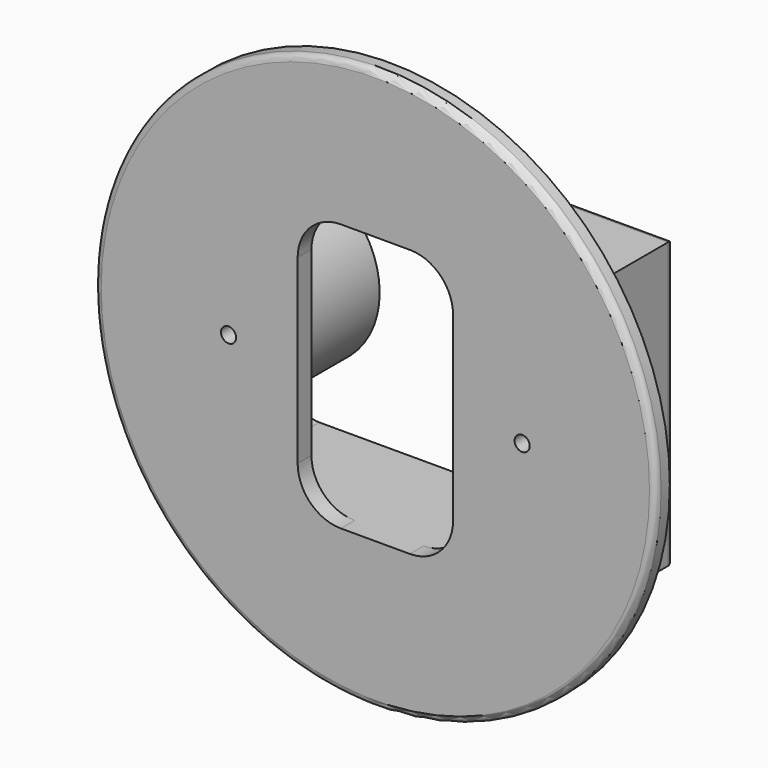
from build123d import *

# Parameters (mm, degrees)
F0_R     = 32.5
F0_W     = 45
F0_H     = 33
F1_DEPTH = 2
F0_R_2   = 0.875
F2_DEPTH = 15
F3_R     = 0.75
F4_R     = 0.75


with BuildPart() as f1:
    # F0 (on Front) → F1 (new body)
    with BuildSketch(Plane.XZ):
        with Locations((-22.5, 16.5)):
            Circle(F0_R)
        with Locations((-22.5, 16.5)):
            Rectangle(F0_W, F0_H, mode=Mode.SUBTRACT)
        with Locations((-22.5, 16.5)):
            Rectangle(F0_W, F0_H)
        with BuildLine():
            Line((-18.5, 32), (-4, 32))
            ThreePointArc((-4, 32), (-1.8786796564, 31.1213203436), (-1, 29))
            Line((-1, 29), (-1, 26.5))
            Line((-1, 26.5), (-1, 6.5))
            Line((-1, 6.5), (-1, 4))
            ThreePointArc((-1, 4), (-1.8786796564, 1.8786796564), (-4, 1))
            Line((-4, 1), (-18.5, 1))
            Line((-18.5, 1), (-26.5, 1))
            Line((-26.5, 1), (-41, 1))
            ThreePointArc((-41, 1), (-43.1213203436, 1.8786796564), (-44, 4))
            Line((-44, 4), (-44, 6.5))
            Line((-44, 6.5), (-44, 26.5))
            Line((-44, 26.5), (-44, 29))
            ThreePointArc((-44, 29), (-43.1213203436, 31.1213203436), (-41, 32))
            Line((-41, 32), (-26.5, 32))
            Line((-26.5, 32), (-18.5, 32))
        make_face(mode=Mode.SUBTRACT)
        with BuildLine():
            ThreePointArc((-1, 29), (-1.8786796564, 31.1213203436), (-4, 32))
            Line((-4, 32), (-18.5, 32))
            ThreePointArc((-18.5, 32), (-14.9644660941, 30.5355339059), (-13.5, 27))
            Line((-13.5, 27), (-13.5, 6))
            ThreePointArc((-13.5, 6), (-14.9644660941, 2.4644660941), (-18.5, 1))
            Line((-18.5, 1), (-4, 1))
            ThreePointArc((-4, 1), (-1.8786796564, 1.8786796564), (-1, 4))
            Line((-1, 4), (-1, 6.5))
            ThreePointArc((-1, 6.5), (-11, 16.5), (-1, 26.5))
            Line((-1, 26.5), (-1, 29))
        make_face()
        with BuildLine():
            ThreePointArc((-31.5, 27), (-30.0355339059, 30.5355339059), (-26.5, 32))
            Line((-26.5, 32), (-41, 32))
            ThreePointArc((-41, 32), (-43.1213203436, 31.1213203436), (-44, 29))
            Line((-44, 29), (-44, 26.5))
            ThreePointArc((-44, 26.5), (-34, 16.5), (-44, 6.5))
            Line((-44, 6.5), (-44, 4))
            ThreePointArc((-44, 4), (-43.1213203436, 1.8786796564), (-41, 1))
            Line((-41, 1), (-26.5, 1))
            ThreePointArc((-26.5, 1), (-30.0355339059, 2.4644660941), (-31.5, 6))
            Line((-31.5, 6), (-31.5, 27))
        make_face()
    extrude(amount=-F1_DEPTH)

    # F0 (on Front) → F2 (join)
    with BuildSketch(Plane.XZ):
        with Locations((-22.5, 16.5)):
            Rectangle(F0_W, F0_H)
        with BuildLine():
            Line((-18.5, 32), (-4, 32))
            ThreePointArc((-4, 32), (-1.8786796564, 31.1213203436), (-1, 29))
            Line((-1, 29), (-1, 26.5))
            Line((-1, 26.5), (-1, 6.5))
            Line((-1, 6.5), (-1, 4))
            ThreePointArc((-1, 4), (-1.8786796564, 1.8786796564), (-4, 1))
            Line((-4, 1), (-18.5, 1))
            Line((-18.5, 1), (-26.5, 1))
            Line((-26.5, 1), (-41, 1))
            ThreePointArc((-41, 1), (-43.1213203436, 1.8786796564), (-44, 4))
            Line((-44, 4), (-44, 6.5))
            Line((-44, 6.5), (-44, 26.5))
            Line((-44, 26.5), (-44, 29))
            ThreePointArc((-44, 29), (-43.1213203436, 31.1213203436), (-41, 32))
            Line((-41, 32), (-26.5, 32))
            Line((-26.5, 32), (-18.5, 32))
        make_face(mode=Mode.SUBTRACT)
        with BuildLine():
            Line((-1, 6.5), (-1, 26.5))
            ThreePointArc((-1, 26.5), (-11, 16.5), (-1, 6.5))
        make_face()
        with Locations((-5.5, 16.5)):
            Circle(F0_R_2, mode=Mode.SUBTRACT)
        with BuildLine():
            ThreePointArc((-44, 6.5), (-34, 16.5), (-44, 26.5))
            Line((-44, 26.5), (-44, 6.5))
        make_face()
        with Locations((-39.5, 16.5)):
            Circle(F0_R_2, mode=Mode.SUBTRACT)
    extrude(amount=-F2_DEPTH)

    # F3
    f3_edges = [f1.edges().sort_by_distance(p)[0] for p in [
        (-55, 0, 16.5),
    ]]
    fillet(f3_edges, radius=F3_R)

    # F4
    f4_edges = [f1.edges().sort_by_distance(p)[0] for p in [
        (0, 15, 16.5),
        (-22.5, 15, 33),
        (-22.5, 15, 0),
        (-45, 15, 16.5),
    ]]
    fillet(f4_edges, radius=F4_R)


solid = f1.part
